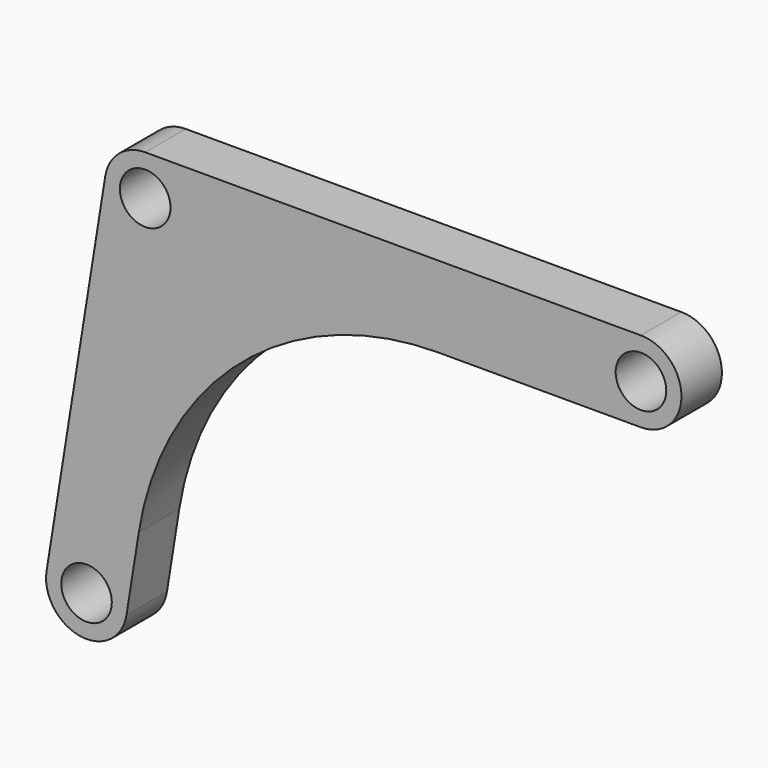
from build123d import *

# Parameters (mm, degrees)
F0_R     = 2.5
F1_DEPTH = 5


with BuildPart() as f1:
    # F0 (on Front) → F1 (new body)
    with BuildSketch(Plane.XZ):
        with BuildLine():
            Line((49, 4), (0, 4))
            ThreePointArc((0, 4), (-2.59533, 3.043725), (-3.949735, 0.632132))
            Line((-3.949735, 0.632132), (-9.749735, -35.607868))
            ThreePointArc((-9.749735, -35.607868), (-6.432132, -40.189735), (-1.850265, -36.872132))
            Line((-1.850265, -36.872132), (-0.631829, -29.25901))
            ThreePointArc((-0.631829, -29.25901), (9.526214, -11.17206), (28.991186, -4))
            Line((28.991186, -4), (49, -4))
            ThreePointArc((49, -4), (53, 0), (49, 4))
        make_face()
        with Locations((-5.8, -36.24)):
            Circle(F0_R, mode=Mode.SUBTRACT)
        Circle(F0_R, mode=Mode.SUBTRACT)
        with Locations((49, 0)):
            Circle(F0_R, mode=Mode.SUBTRACT)
    extrude(amount=F1_DEPTH)


solid = f1.part
